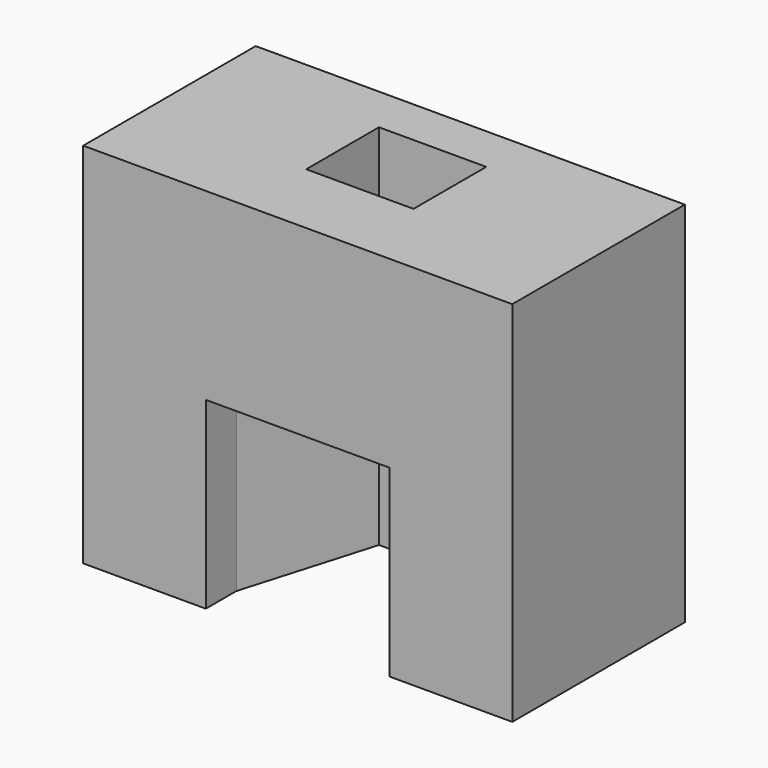
from build123d import *

# Parameters (mm, degrees)
F1_DEPTH = 609.6
F3_DEPTH = 609.6


with BuildPart() as f1:
    # F0 (on Top) → F1 (new body)
    with BuildSketch(Plane.XY):
        Polygon((-711.2, 0), (-304.8, 0), (-304.8, 127), (-177.8, 558.8), (177.8, 558.8), (304.8, 127), (304.8, 0), (711.2, 0), (711.2, 714.77999), (-711.2, 714.77999), align=None)
    extrude(amount=F1_DEPTH)

    # F2 (on face) → F3 (join)
    with BuildSketch(Plane.XY.offset(609.6)):
        Polygon((711.2, 714.77999), (-711.2, 714.77999), (-711.2, 0), (-304.8, 0), (-304.8, 127), (-177.8, 558.8), (177.8, 558.8), (304.8, 127), (304.8, 0), (711.2, 0), align=None)
        Polygon((-304.8, 127), (-304.8, 0), (304.8, 0), (304.8, 127), (177.8, 558.8), (177.8, 257.339239), (-177.8, 257.339239), (-177.8, 558.8), align=None)
    extrude(amount=F3_DEPTH)


solid = f1.part
